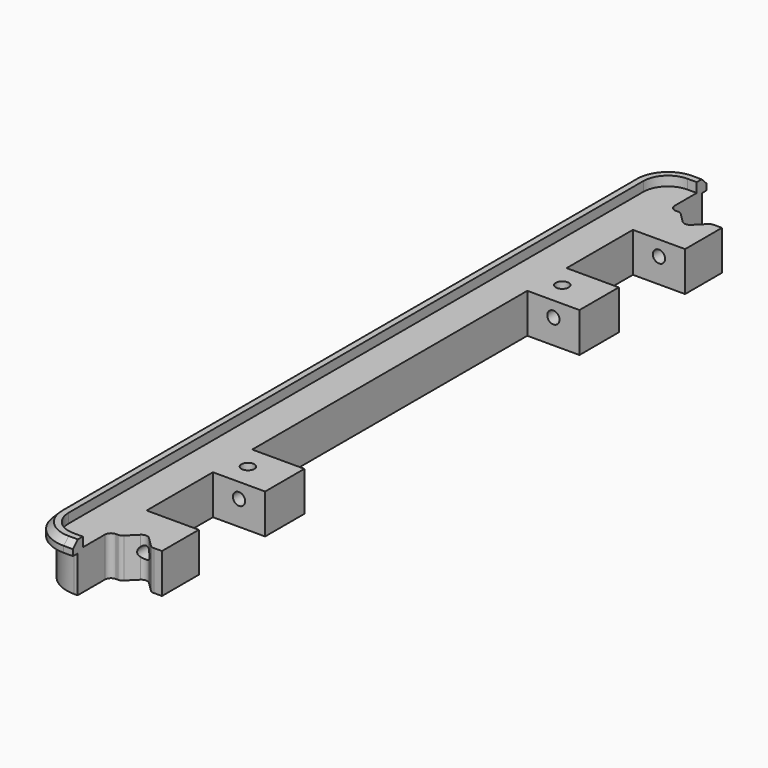
from build123d import *

# Parameters (mm, degrees)
F0_R     = 2.1
F1_DEPTH = 16
F2_SIZE  = 2
F4_DEPTH = 3.1
F6_DEPTH = 12
F7_R     = 2
F8_DEPTH = 256.101


with BuildPart() as f1:
    # F0 (on Top) → F1 (new body)
    with BuildSketch(Plane.XY):
        with BuildLine():
            Line((-171.5, 129), (-174.5, 129))
            ThreePointArc((-174.5, 129), (-182.985281, 125.485281), (-186.5, 117))
            Line((-186.5, 117), (-186.5, -117))
            ThreePointArc((-186.5, -117), (-182.985281, -125.485281), (-174.5, -129))
            Line((-174.5, -129), (-171.5, -129))
            Line((-171.5, -129), (-171.5, -127.73274))
            Line((-171.5, -127.73274), (-171.5, -116))
            ThreePointArc((-171.5, -116), (-170.914214, -114.585786), (-169.5, -114))
            Line((-169.5, -114), (-168.828427, -114))
            ThreePointArc((-168.828427, -114), (-168.06306, -113.847759), (-167.414214, -113.414214))
            Line((-167.414214, -113.414214), (-164.414214, -110.414214))
            ThreePointArc((-164.414214, -110.414214), (-163, -109.828427), (-161.585786, -110.414214))
            Line((-161.585786, -110.414214), (-158.585786, -113.414214))
            ThreePointArc((-158.585786, -113.414214), (-157.93694, -113.847759), (-157.171573, -114))
            Line((-157.171573, -114), (-154.5, -114))
            Line((-154.5, -114), (-154.5, -99))
            Line((-154.5, -99), (-171.5, -99))
            Line((-171.5, -99), (-171.5, -72))
            Line((-171.5, -72), (-154.5, -72))
            Line((-154.5, -72), (-154.5, -56))
            Line((-154.5, -56), (-171.5, -56))
            Line((-171.5, -56), (-171.5, 56))
            Line((-171.5, 56), (-154.5, 56))
            Line((-154.5, 56), (-154.5, 72))
            Line((-154.5, 72), (-171.5, 72))
            Line((-171.5, 72), (-171.5, 99))
            Line((-171.5, 99), (-154.5, 99))
            Line((-154.5, 99), (-154.5, 114))
            Line((-154.5, 114), (-157.171573, 114))
            ThreePointArc((-157.171573, 114), (-157.93694, 113.847759), (-158.585786, 113.414214))
            Line((-158.585786, 113.414214), (-161.585786, 110.414214))
            ThreePointArc((-161.585786, 110.414214), (-163, 109.828427), (-164.414214, 110.414214))
            Line((-164.414214, 110.414214), (-167.414214, 113.414214))
            ThreePointArc((-167.414214, 113.414214), (-168.06306, 113.847759), (-168.828427, 114))
            Line((-168.828427, 114), (-169.5, 114))
            ThreePointArc((-169.5, 114), (-170.914214, 114.585786), (-171.5, 116))
            Line((-171.5, 116), (-171.5, 127.73274))
            Line((-171.5, 127.73274), (-171.5, 129))
        make_face()
        with Locations((-166.5, -64)):
            Circle(F0_R, mode=Mode.SUBTRACT)
        with Locations((-166.5, 64)):
            Circle(F0_R, mode=Mode.SUBTRACT)
    extrude(amount=F1_DEPTH)

    # F2
    f2_edges = [f1.edges().sort_by_distance(p)[0] for p in [
        (-173, -129, 16),
    ]]
    chamfer(f2_edges, length=F2_SIZE)

    # F3 (on face) → F4 (cut)
    with BuildSketch(Plane.XY.offset(16)):
        with BuildLine():
            ThreePointArc((-174.5, 125), (-180.156854, 122.656854), (-182.5, 117))
            Line((-182.5, 117), (-182.5, -117))
            ThreePointArc((-182.5, -117), (-180.156854, -122.656854), (-174.5, -125))
            Line((-174.5, -125), (-154.5, -125))
            Line((-154.5, -125), (-153.811902, 125))
            Line((-153.811902, 125), (-174.5, 125))
        make_face()
    extrude(amount=-F4_DEPTH, mode=Mode.SUBTRACT)

    # F5 (on face) → F6 (cut)
    with BuildSketch(Plane.XY):
        with BuildLine():
            ThreePointArc((-184.6, 115.1), (-181.085281, 123.585281), (-172.6, 127.1))
            Line((-172.6, 127.1), (-152.206928, 127.1))
            Line((-152.206928, 127.1), (-152.206928, 132.1))
            Line((-152.206928, 132.1), (-172.6, 132.1))
            ThreePointArc((-172.6, 132.1), (-184.620815, 127.120815), (-189.6, 115.1))
            Line((-189.6, 115.1), (-189.6, -115.1))
            ThreePointArc((-189.6, -115.1), (-184.620815, -127.120815), (-172.6, -132.1))
            Line((-172.6, -132.1), (-152.206928, -132.1))
            Line((-152.206928, -132.1), (-152.206928, -127.1))
            Line((-152.206928, -127.1), (-172.6, -127.1))
            ThreePointArc((-172.6, -127.1), (-181.085281, -123.585281), (-184.6, -115.1))
            Line((-184.6, -115.1), (-184.6, 115.1))
        make_face()
    extrude(amount=F6_DEPTH, mode=Mode.SUBTRACT)

    # F7 (on face) → F8 (cut, through all)
    with BuildSketch(Plane.XZ.offset(127.1)):
        with Locations((-163, 8)):
            Circle(F7_R)
        with Locations((163, 8)):
            Circle(F7_R)
    extrude(amount=-F8_DEPTH, mode=Mode.SUBTRACT)


solid = f1.part
